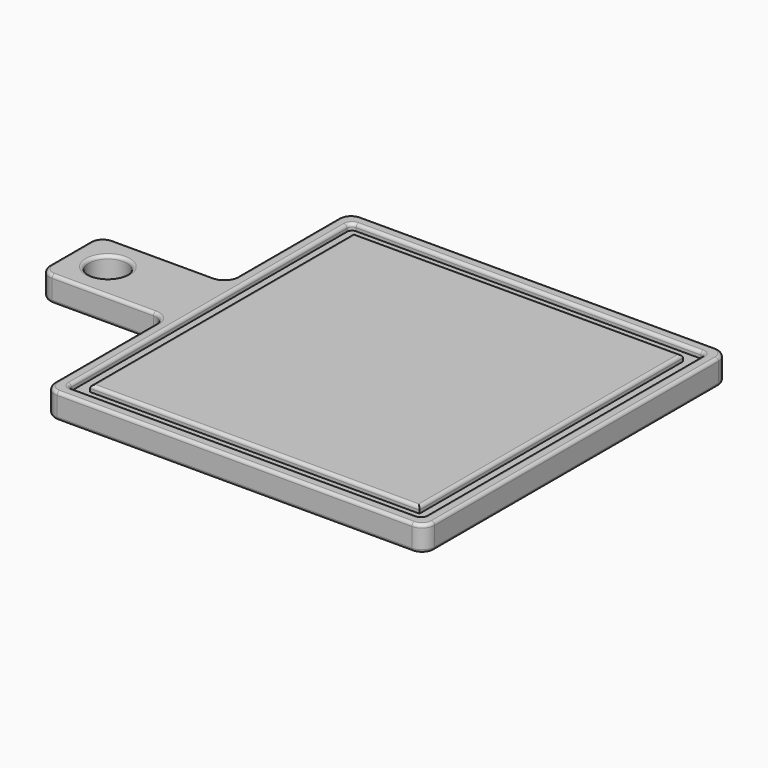
from build123d import *

# Parameters (mm, degrees)
F0_W     = 127
F0_H     = 76.2
F1_DEPTH = 25.4
F2_R     = 19.05
F3_DEPTH = 25.4
F5_DEPTH = 6.35
F6_R     = 5.08
F7_R     = 12.7
F8_R     = 3.175


with BuildPart() as f1:
    # F0 (on Top) → F1 (new body)
    with BuildSketch(Plane.XY):
        Polygon((0, 152.4), (0, 0), (381, 0), (381, 381), (0, 381), (0, 228.6), align=None)
        with Locations((-63.5, 190.5)):
            Rectangle(F0_W, F0_H)
    extrude(amount=F1_DEPTH)

    # F2 (on face) → F3 (cut)
    with BuildSketch(Plane.XY.offset(25.4)):
        with Locations((-88.9, 190.5)):
            Circle(F2_R)
    extrude(amount=-F3_DEPTH, mode=Mode.SUBTRACT)

    # F4 (on face) → F5 (cut)
    with BuildSketch(Plane.XY.offset(25.4)):
        Polygon((368.3, 12.7), (368.3, 368.3), (12.7, 368.3), (12.7, 215.9), (12.7, 165.1), (12.7, 12.7), align=None)
        Polygon((355.6, 355.6), (355.6, 25.4), (25.4, 25.4), (25.4, 165.1), (25.4, 215.9), (25.4, 355.6), align=None, mode=Mode.SUBTRACT)
    extrude(amount=-F5_DEPTH, mode=Mode.SUBTRACT)

    # F6
    f6_edges = [f1.edges().sort_by_distance(p)[0] for p in [
        (12.7, 368.3, 22.225),
        (368.3, 368.3, 22.225),
        (12.7, 12.7, 22.225),
        (368.3, 12.7, 22.225),
    ]]
    fillet(f6_edges, radius=F6_R)

    # F7
    f7_edges = [f1.edges().sort_by_distance(p)[0] for p in [
        (381, 0, 12.7),
        (0, 0, 12.7),
        (-127, 152.4, 12.7),
        (381, 381, 12.7),
        (-127, 228.6, 12.7),
        (0, 381, 12.7),
        (0, 228.6, 12.7),
        (0, 152.4, 12.7),
    ]]
    fillet(f7_edges, radius=F7_R)

    # F8
    f8_edges = [f1.edges().sort_by_distance(p)[0] for p in [
        (190.5, 355.6, 25.4),
        (355.6, 190.5, 25.4),
        (190.5, 25.4, 25.4),
        (25.4, 190.5, 25.4),
        (0, 76.2, 25.4),
        (-3.719744, 148.680256, 25.4),
        (3.719744, 3.719744, 25.4),
        (-63.5, 152.4, 25.4),
        (190.5, 0, 25.4),
        (-123.280256, 156.119744, 25.4),
        (377.280256, 3.719744, 25.4),
        (-127, 190.5, 25.4),
        (381, 190.5, 25.4),
        (-123.280256, 224.880256, 25.4),
        (377.280256, 377.280256, 25.4),
        (-63.5, 228.6, 25.4),
        (190.5, 381, 25.4),
        (-3.719744, 232.319744, 25.4),
        (3.719744, 377.280256, 25.4),
        (0, 304.8, 25.4),
        (190.5, 12.7, 25.4),
        (14.187898, 14.187898, 25.4),
        (366.812102, 14.187898, 25.4),
        (12.7, 190.5, 25.4),
        (368.3, 190.5, 25.4),
        (14.187898, 366.812102, 25.4),
        (366.812102, 366.812102, 25.4),
        (190.5, 368.3, 25.4),
        (-107.95, 190.5, 25.4),
        (190.5, 381, 0),
        (368.3, 381, 12.7),
        (12.7, 381, 12.7),
        (3.719744, 377.280256, 0),
        (0, 368.3, 12.7),
        (0, 241.3, 12.7),
        (-3.719744, 232.319744, 0),
        (-12.7, 228.6, 12.7),
        (-63.5, 228.6, 0),
        (-114.3, 228.6, 12.7),
        (0, 76.2, 0),
        (0, 139.7, 12.7),
        (0, 12.7, 12.7),
        (-3.719744, 148.680256, 0),
        (-12.7, 152.4, 12.7),
        (3.719744, 3.719744, 0),
        (-63.5, 152.4, 0),
        (190.5, 0, 0),
        (-123.280256, 156.119744, 0),
        (377.280256, 3.719744, 0),
        (-127, 190.5, 0),
        (381, 190.5, 0),
        (-123.280256, 224.880256, 0),
        (377.280256, 377.280256, 0),
        (0, 304.8, 0),
        (-107.95, 190.5, 0),
    ]]
    fillet(f8_edges, radius=F8_R)


solid = f1.part
